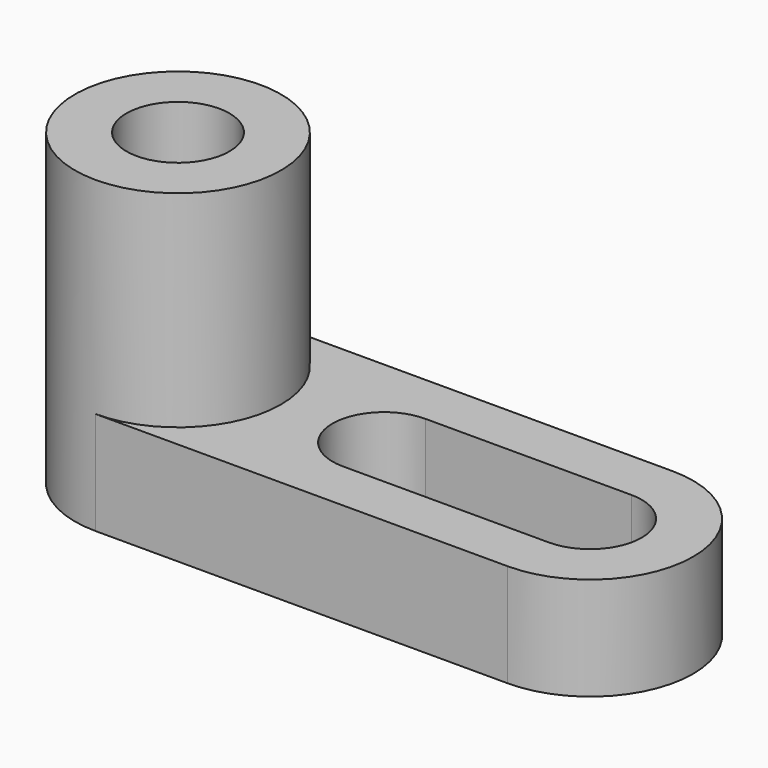
from build123d import *

# Parameters (mm, degrees)
F1_DEPTH = 38.1
F0_W     = 50.8
F0_H     = 25.4
F2_DEPTH = 12.7
F4_DEPTH = 25.4
F5_W     = 25.4
F5_H     = 12.7
F6_DEPTH = 25.4
F7_R     = 6.35
F8_DEPTH = 38.1


with BuildPart() as f1:
    # F0 (on Top) → F1 (new body)
    with BuildSketch(Plane.XY):
        with BuildLine():
            ThreePointArc((0, 25.4), (-12.7, 12.7), (0, 0))
            Line((0, 0), (0, 25.4))
        make_face()
    extrude(amount=F1_DEPTH)

    # F0 (on Top) → F2 (join)
    with BuildSketch(Plane.XY):
        with Locations((25.4, 12.7)):
            Rectangle(F0_W, F0_H)
        with BuildLine():
            ThreePointArc((0, 25.4), (-12.7, 12.7), (0, 0))
            Line((0, 0), (0, 25.4))
        make_face()
        with BuildLine():
            Line((50.8, 25.4), (50.8, 0))
            ThreePointArc((50.8, 0), (63.5, 12.7), (50.8, 25.4))
        make_face()
    extrude(amount=F2_DEPTH)

    # F3 (on face) → F4 (join)
    with BuildSketch(Plane.XY.offset(12.7)):
        with BuildLine():
            Line((0, 25.4), (0, 0))
            ThreePointArc((0, 0), (12.7, 12.7), (0, 25.4))
        make_face()
    extrude(amount=F4_DEPTH)

    # F5 (on face) → F6 (cut)
    with BuildSketch(Plane.XY.offset(12.7)):
        with BuildLine():
            Line((25.4, 6.35), (25.4, 19.05))
            ThreePointArc((25.4, 19.05), (19.05, 12.7), (25.4, 6.35))
        make_face()
        with Locations((38.1, 12.7)):
            Rectangle(F5_W, F5_H)
        with BuildLine():
            ThreePointArc((50.8, 6.35), (57.15, 12.7), (50.8, 19.05))
            Line((50.8, 19.05), (50.8, 6.35))
        make_face()
    extrude(amount=-F6_DEPTH, mode=Mode.SUBTRACT)

    # F7 (on face) → F8 (cut)
    with BuildSketch(Plane.XY.offset(38.1)):
        with Locations((0, 12.7)):
            Circle(F7_R)
    extrude(amount=-F8_DEPTH, mode=Mode.SUBTRACT)


solid = f1.part
